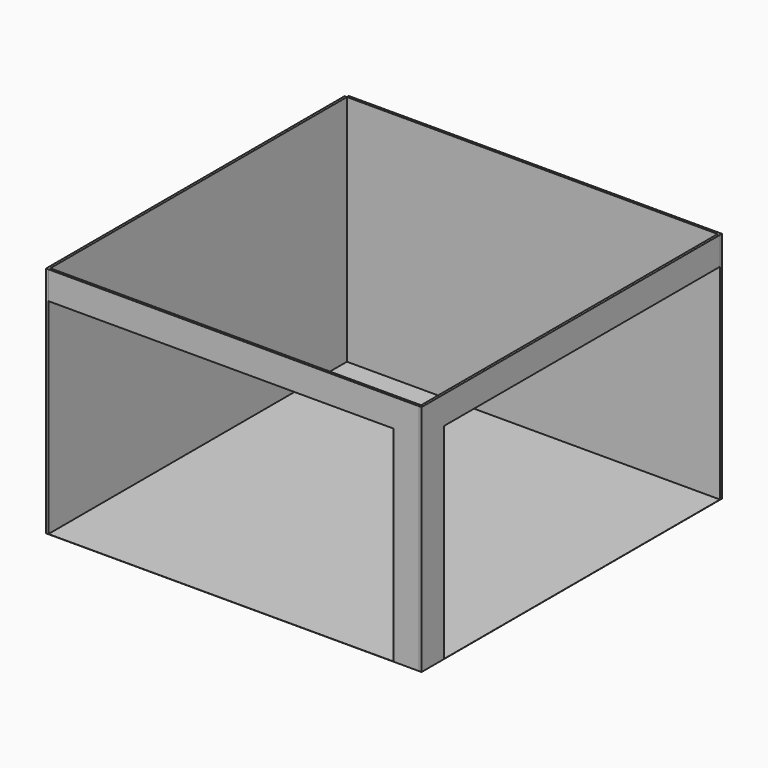
from build123d import *

# Parameters (mm, degrees)
F2_W      = 4000
F2_H      = 4000
F3_DEPTH  = 2
F1_W      = 4000
F1_H      = 2500
F4_DEPTH  = 25
F0_W      = 4000
F0_H      = 2500
F5_DEPTH  = 25
F8_W      = 300
F8_H      = 2200
F8_H_2    = 300
F8_W_2    = 3700
F9_DEPTH  = 25
F10_W     = 3700
F10_H     = 300
F10_W_2   = 300
F10_H_2   = 2200
F11_DEPTH = 25


with BuildPart() as f3:
    # F2 (on Top) → F3 (new body)
    with BuildSketch(Plane.XY):
        with Locations((2000, -2000)):
            Rectangle(F2_W, F2_H)
    extrude(amount=F3_DEPTH)


with BuildPart() as f4:
    # F1 (on Right) → F4 (new body)
    with BuildSketch(Plane.YZ):
        with Locations((-2000, 1250)):
            Rectangle(F1_W, F1_H)
    extrude(amount=-F4_DEPTH)


with BuildPart() as f5:
    # F0 (on Front) → F5 (new body)
    with BuildSketch(Plane.XZ):
        with Locations((2000, 1250)):
            Rectangle(F0_W, F0_H)
    extrude(amount=-F5_DEPTH)


with BuildPart() as f9:
    # F8 (on offset) → F9 (new body)
    with BuildSketch(Plane.XZ.offset(4000)):
        with Locations((3850, 1100)):
            Rectangle(F8_W, F8_H)
        with Locations((3850, 2350)):
            Rectangle(F8_W, F8_H_2)
        with Locations((1850, 2350)):
            Rectangle(F8_W_2, F8_H_2)
    extrude(amount=-F9_DEPTH)


with BuildPart() as f11:
    # F10 (on offset) → F11 (new body)
    with BuildSketch(Plane.YZ.offset(4000)):
        with Locations((-1850, 2350)):
            Rectangle(F10_W, F10_H)
        with Locations((-3850, 2350)):
            Rectangle(F10_W_2, F10_H)
        with Locations((-3850, 1100)):
            Rectangle(F10_W_2, F10_H_2)
    extrude(amount=-F11_DEPTH)


solid = Compound([f3.part, f4.part, f5.part, f9.part, f11.part])
